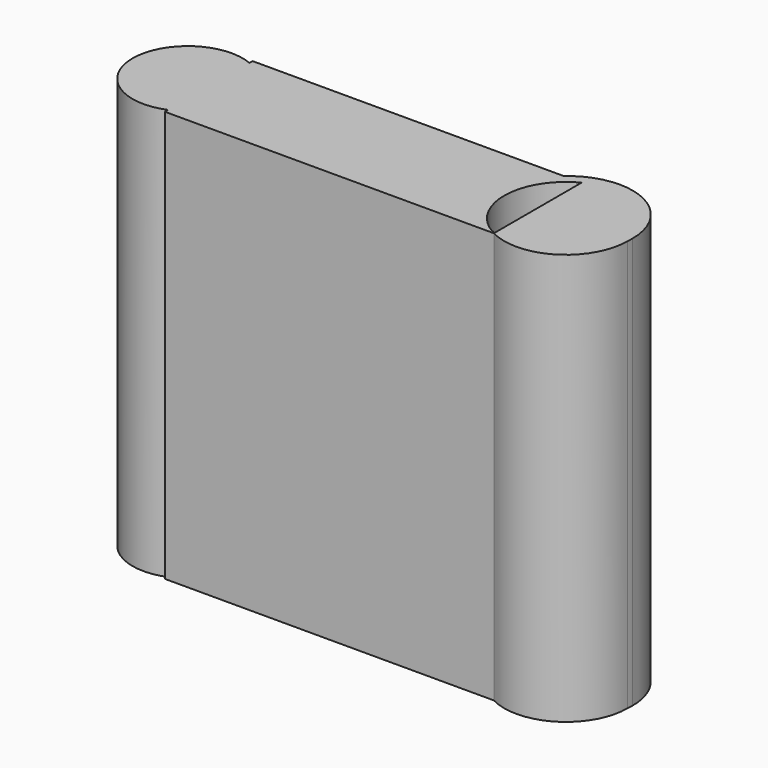
from build123d import *

# Parameters (mm, degrees)
F1_DEPTH = 19.05


with BuildPart() as f1:
    # F0 (on Top) → F1 (new body)
    with BuildSketch(Plane.XY):
        with BuildLine():
            ThreePointArc((7.2626187445, -2.3218418449), (7.4373057147, -2.4374796146), (7.62, -2.54))
            Line((7.62, -2.54), (7.62, -2.5002849179))
            ThreePointArc((7.62, -2.5002849179), (7.4383464715, -2.4169974039), (7.2626187445, -2.3218418449))
        make_face()
        with BuildLine():
            Line((7.62, -2.5002849179), (7.62, -2.54))
            ThreePointArc((7.62, -2.54), (10.4131532031, -2.4374796146), (11.7809647303, 0))
            ThreePointArc((11.7809647303, 0), (10.3337635492, -2.304046617), (7.62, -2.5002849179))
        make_face()
        with BuildLine():
            Line((-7.62, -2.54), (7.62, -2.54))
            ThreePointArc((7.62, -2.54), (7.4373057147, -2.4374796146), (7.2626187445, -2.3218418449))
            ThreePointArc((7.2626187445, -2.3218418449), (5.7863217553, -0.0097122698), (6.7984301061, 2.54))
            Line((6.7984301061, 2.54), (-7.62, 2.54))
            ThreePointArc((-7.62, 2.54), (-5.8743141512, 0), (-7.62, -2.54))
        make_face()
        with BuildLine():
            Line((-7.62, -2.3580935732), (-7.62, -2.54))
            ThreePointArc((-7.62, -2.54), (-5.8743141512, 0), (-7.62, 2.54))
            Line((-7.62, 2.54), (-7.62, 2.3580935732))
            ThreePointArc((-7.62, 2.3580935732), (-6.4737913748, 1.4183239648), (-6.0433053003, 0))
            ThreePointArc((-6.0433053003, 0), (-6.4737913748, -1.4183239648), (-7.62, -2.3580935732))
        make_face()
        with BuildLine():
            Line((7.62, 2.54), (7.62, -2.5002849179))
            ThreePointArc((7.62, -2.5002849179), (10.3337635492, -2.304046617), (11.7809647303, 0))
            ThreePointArc((11.7809647303, 0), (11.7905006369, 0.1380618825), (11.7936815131, 0.276416134))
            ThreePointArc((11.7936815131, 0.276416134), (10.0257602089, 3.0185115252), (6.7984301061, 2.54))
            Line((6.7984301061, 2.54), (7.62, 2.54))
        make_face()
        with BuildLine():
            ThreePointArc((6.7984301061, 2.54), (5.7863217553, -0.0097122698), (7.2626187445, -2.3218418449))
            ThreePointArc((7.2626187445, -2.3218418449), (6.0771783086, 0.2093527779), (7.62, 2.54))
            Line((7.62, 2.54), (6.7984301061, 2.54))
        make_face()
        with BuildLine():
            ThreePointArc((-7.62, 2.3580935732), (-11.1467482672, 0), (-7.62, -2.3580935732))
            Line((-7.62, -2.3580935732), (-7.62, 2.3580935732))
        make_face()
        with BuildLine():
            Line((-7.62, 2.3580935732), (-7.62, -2.3580935732))
            ThreePointArc((-7.62, -2.3580935732), (-6.4737913748, -1.4183239648), (-6.0433053003, 0))
            ThreePointArc((-6.0433053003, 0), (-6.4737913748, 1.4183239648), (-7.62, 2.3580935732))
        make_face()
        with BuildLine():
            Line((-7.62, -2.54), (7.62, -2.54))
            ThreePointArc((7.62, -2.54), (7.4373057147, -2.4374796146), (7.2626187445, -2.3218418449))
            ThreePointArc((7.2626187445, -2.3218418449), (5.7863217553, -0.0097122698), (6.7984301061, 2.54))
            Line((6.7984301061, 2.54), (-7.62, 2.54))
            ThreePointArc((-7.62, 2.54), (-5.8743141512, 0), (-7.62, -2.54))
        make_face()
    extrude(amount=F1_DEPTH)


solid = f1.part
